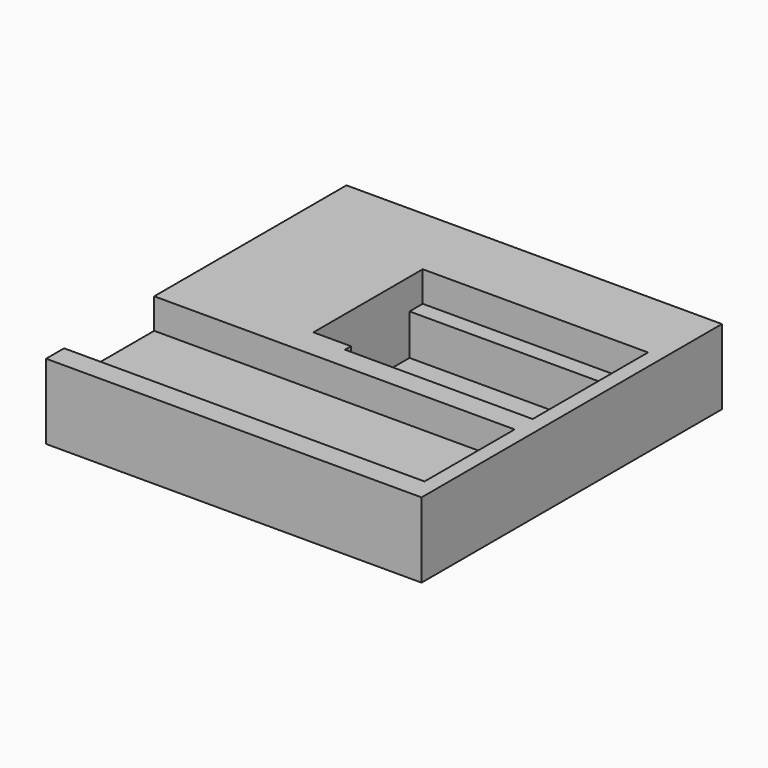
from build123d import *

# Parameters (mm, degrees)
F0_W     = 29
F0_H     = 14.8
F1_DEPTH = 0.5
F2_DEPTH = 5.95
F0_W_2   = 48
F0_H_2   = 15
F3_DEPTH = 5.95
F4_DEPTH = 10


with BuildPart() as f1:
    # F0 (on Top) → F1 (new body)
    with BuildSketch(Plane.XY):
        with Locations((5.996847, 3.792403)):
            Rectangle(F0_W, F0_H)
    extrude(amount=F1_DEPTH)

    # F0 (on Top) → F2 (join)
    with BuildSketch(Plane.XY):
        Polygon((-3.503153, -5.807597), (21.496847, -5.807597), (21.496847, 13.392403), (-3.503153, 13.392403), (-8.503153, 13.392403), (-8.503153, 11.192403), (20.496847, 11.192403), (20.496847, -3.607597), (-8.503153, -3.607597), (-8.503153, -4.807597), (-3.503153, -4.807597), align=None)
    extrude(amount=F2_DEPTH)


with BuildPart() as f3:
    # F0 (on Top) → F3 (new body)
    with BuildSketch(Plane.XY):
        with Locations((-2.503153, -16.307597)):
            Rectangle(F0_W_2, F0_H_2)
    extrude(amount=F3_DEPTH)


with BuildPart() as f4:
    # F0 (on Top) → F4 (new body)
    with BuildSketch(Plane.XY):
        Polygon((23.496847, 23.192403), (-26.503153, 23.192403), (-26.503153, -8.807597), (21.496847, -8.807597), (21.496847, -23.807597), (23.496847, -23.807597), align=None)
        Polygon((21.496847, 13.392403), (21.496847, -5.807597), (-3.503153, -5.807597), (-3.503153, -4.807597), (-8.503153, -4.807597), (-8.503153, -3.607597), (-8.503153, 11.192403), (-8.503153, 13.392403), (-3.503153, 13.392403), align=None, mode=Mode.SUBTRACT)
        Polygon((23.496847, -26.807597), (23.496847, -23.807597), (21.496847, -23.807597), (-26.503153, -23.807597), (-26.503153, -26.807597), align=None)
    extrude(amount=F4_DEPTH)


solid = Compound([f1.part, f3.part, f4.part])
